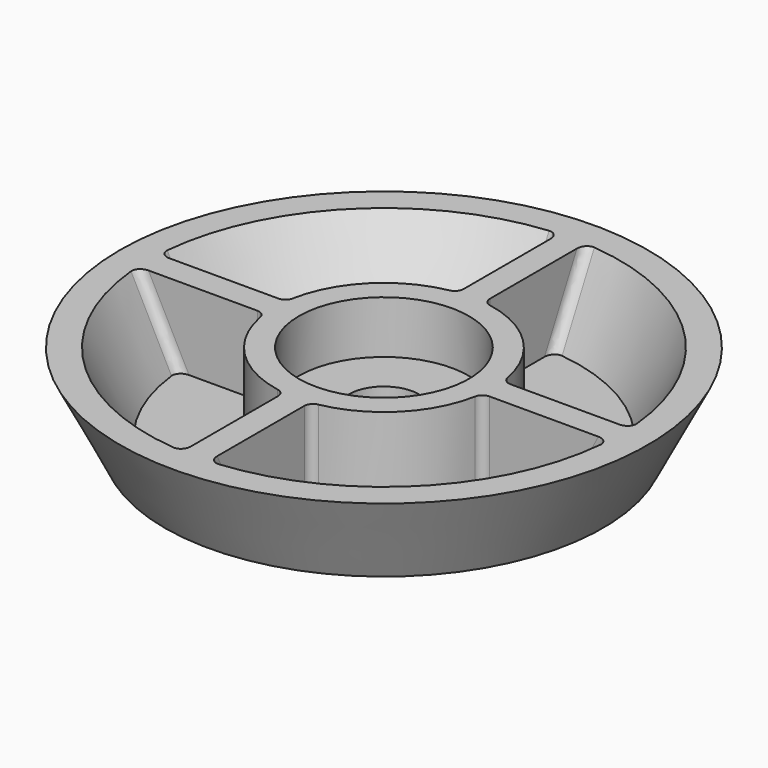
from build123d import *

# Parameters (mm, degrees)
F4_R = 1


with BuildPart() as f1:
    # F0 (on Front) → F1 (revolve)
    with BuildSketch(Plane.XZ):
        Polygon((-30.1100046678, 10), (-25, 0), (-4, 0), (-4, 4), (-9.7, 4), (-9.7, 10), (-12.467299588, 10), (-12.467299588, 1), (-22.3023900814, 1), (-26.9013942824, 10), align=None)
    revolve(axis=Axis((0, 0, 12.4949840829), (0, 0, -1)))

    # F2 (on face) → F3 (join, up to the next surface of F1)
    with BuildSketch(Plane.XY.offset(10)):
        with BuildLine():
            ThreePointArc((1.5, 26.859542333), (0, 26.9013942824), (-1.5, 26.859542333))
            Line((-1.5, 26.859542333), (-1.5, 12.3767345862))
            ThreePointArc((-1.5, 12.3767345862), (0, 12.467299588), (1.5, 12.3767345862))
            Line((1.5, 12.3767345862), (1.5, 26.859542333))
        make_face()
        with BuildLine():
            Line((26.859542333, 1.5), (12.3767345862, 1.5))
            ThreePointArc((12.3767345862, 1.5), (12.467299588, 0), (12.3767345862, -1.5))
            Line((12.3767345862, -1.5), (26.859542333, -1.5))
            ThreePointArc((26.859542333, -1.5), (26.9013942824, 0), (26.859542333, 1.5))
        make_face()
        with BuildLine():
            Line((-12.3767345862, 1.5), (-26.859542333, 1.5))
            ThreePointArc((-26.859542333, 1.5), (-26.9013942824, 0), (-26.859542333, -1.5))
            Line((-26.859542333, -1.5), (-12.3767345862, -1.5))
            ThreePointArc((-12.3767345862, -1.5), (-12.467299588, 0), (-12.3767345862, 1.5))
        make_face()
        with BuildLine():
            ThreePointArc((1.5, -12.3767345862), (0, -12.467299588), (-1.5, -12.3767345862))
            Line((-1.5, -12.3767345862), (-1.5, -26.859542333))
            ThreePointArc((-1.5, -26.859542333), (0, -26.9013942824), (1.5, -26.859542333))
            Line((1.5, -26.859542333), (1.5, -12.3767345862))
        make_face()
    extrude(until=Until.NEXT, dir=(0, 0, -1))

    # F4
    f4_edges = [f1.edges().sort_by_distance(p)[0] for p in [
        (-1.5, 24.556037, 5.499836),
        (1.5, 24.556037, 5.499836),
        (-24.556037, 1.5, 5.499836),
        (-24.556037, -1.5, 5.499836),
        (-1.5, -24.556037, 5.499836),
        (24.556037, 1.5, 5.499836),
        (24.556037, -1.5, 5.499836),
        (1.5, -24.556037, 5.499836),
        (1.5, 12.376735, 5.5),
        (12.376735, 1.5, 5.5),
        (12.376735, -1.5, 5.5),
        (1.5, -12.376735, 5.5),
        (-1.5, -12.376735, 5.5),
        (-12.376735, -1.5, 5.5),
        (-12.376735, 1.5, 5.5),
        (-1.5, 12.376735, 5.5),
    ]]
    fillet(f4_edges, radius=F4_R)


solid = f1.part
